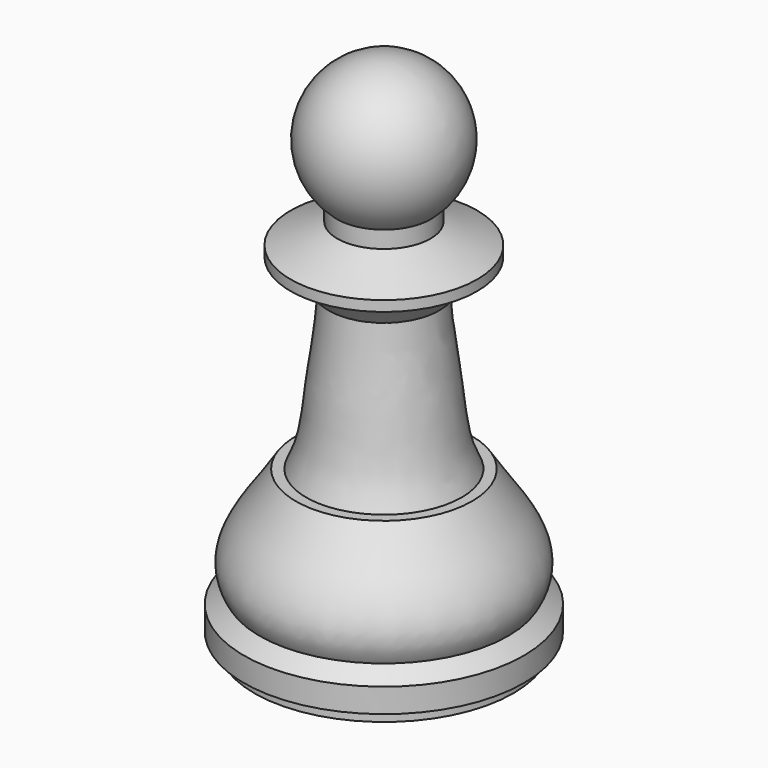
from build123d import *


with BuildPart() as f1:
    # F0 (on Front) → F1 (revolve)
    with BuildSketch(Plane.XZ):
        with BuildLine():
            Line((4.5, 13.9155603797), (4.5, 15.5536577323))
            ThreePointArc((4.5, 15.5536577323), (6.5777396776, 23.3099999246), (0, 27.9155603797))
            Line((0, 27.9155603797), (0, -22.0844396203))
            Line((0, -22.0844396203), (12.5, -22.0844396203))
            Line((12.5, -22.0844396203), (12.5, -21.258339414))
            Line((12.5, -21.258339414), (13.5, -20.8962321129))
            Line((13.5, -20.8962321129), (13.5, -18.5651669636))
            Line((13.5, -18.5651669636), (12, -17.3774305589))
            add(Edge.make_bspline(
                [(8.5, -7.0844396203), (10.73704627, -10.7839351066), (14.1928188384, -13.7953361232), (12, -17.3774305589)],
                knots=[0, 0, 0, 0, 10.8717828557, 10.8717828557, 10.8717828557, 10.8717828557], degree=3))
            Line((8.5, -7.0844396203), (7.5, -7.0844396203))
            add(Edge.make_bspline(
                [(5, 7.9155603797), (5.1438804512, 5.3541886707), (6.0746159311, 0.04016457), (6.3753383304, -4.9510663585), (7.5, -7.0844396203)],
                knots=[0, 0, 0, 0, 0.5117325866, 1, 1, 1, 1], degree=3))
            add(Edge.make_bspline(
                [(9, 10.9155603797), (6.2072066026, 10.353216024), (5.9701752265, 8.1485969333), (5, 7.9155603797)],
                knots=[0, 0, 0, 0, 5, 5, 5, 5], degree=3))
            Line((9, 10.9155603797), (9, 11.9155603797))
            Line((9, 11.9155603797), (4.5, 13.9155603797))
        make_face()
    revolve(axis=Axis((0, 0, 5.2160786271), (0, 0, -1)))


solid = f1.part
